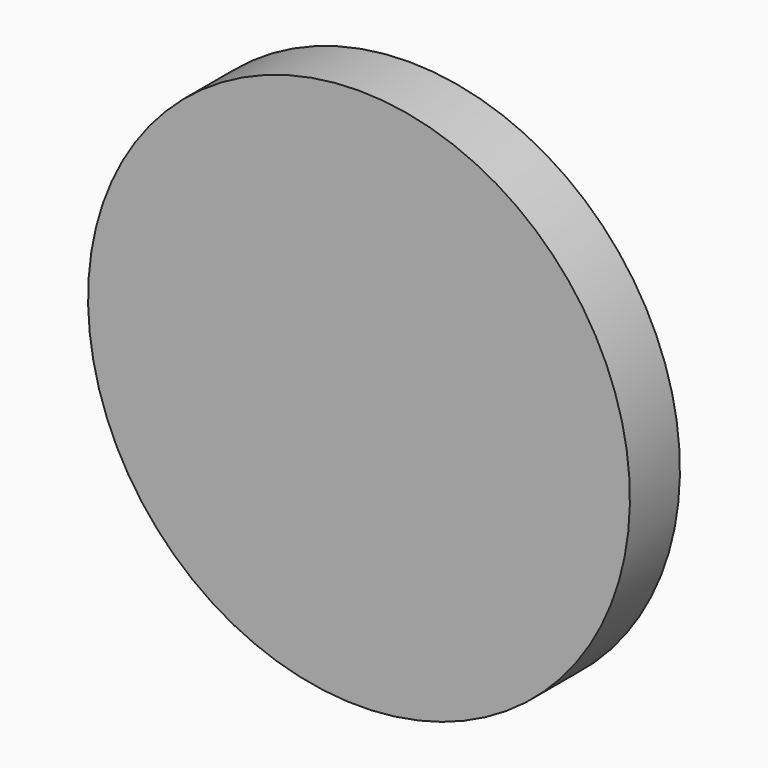
from build123d import *

# Parameters (mm, degrees)
CYLINDER002_R     = 0.65
CYLINDER002_DEPTH = 0.15


with BuildPart() as part:
    # Cylinder002 → Cylinder002 (new body)
    with BuildSketch(Plane.ZX.offset(-0.15)):
        Circle(CYLINDER002_R)
    extrude(amount=CYLINDER002_DEPTH)


solid = part.part
